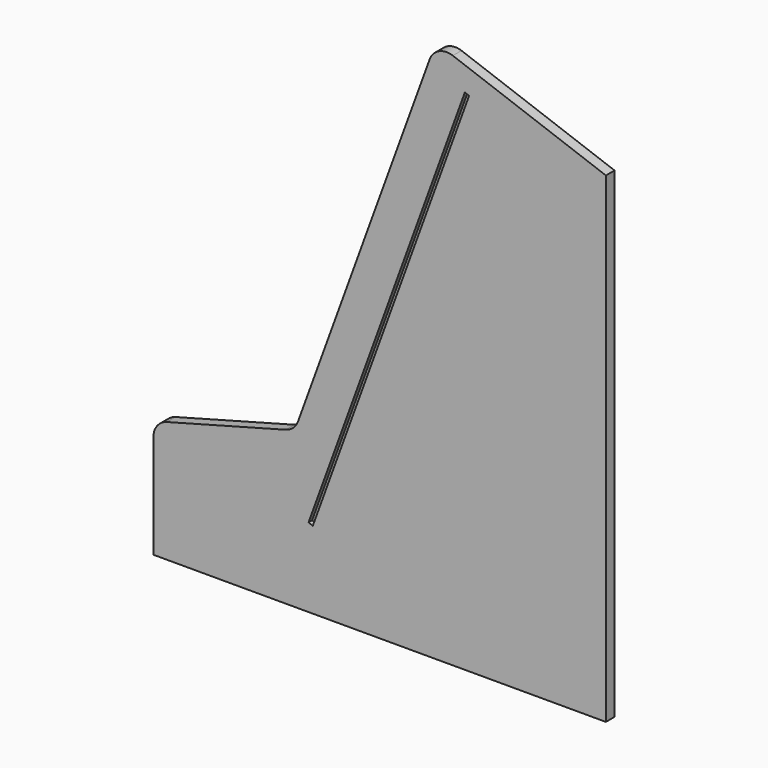
from build123d import *

# Parameters (mm, degrees)
PAD_DEPTH       = 12
POCKET_DEPTH    = 1
FILLET_R        = 20
FILLET001_R     = 20
FILLET002_R     = 20
POCKET001_DEPTH = 5


with BuildPart() as part:
    # Sketch001 → Pad (new body)
    with BuildSketch(Plane.XZ):
        Polygon((-20, -20), (-20, 110), (136.232082, 151.86226), (292.061476, 580), (480, 511.595971), (480, -20), align=None)
    extrude(amount=-PAD_DEPTH)

    # Sketch002 (on Face7 of Pad) → Pocket (cut)
    with BuildSketch(Plane.XZ):
        Polygon((465, -5), (465, 501.092858), (301.026563, 560.774309), (147.656805, 139.394363), (-5, 98.490095), (-5, -5), align=None)
    extrude(amount=POCKET_DEPTH, mode=Mode.SUBTRACT)

    # Fillet
    fillet_edges = [part.edges().sort_by_distance(p)[0] for p in [
        (-20, 6, 110),
    ]]
    fillet(fillet_edges, radius=FILLET_R)

    # Fillet001
    fillet001_edges = [part.edges().sort_by_distance(p)[0] for p in [
        (136.232082, 6, 151.86226),
    ]]
    fillet(fillet001_edges, radius=FILLET001_R)

    # Fillet002
    fillet002_edges = [part.edges().sort_by_distance(p)[0] for p in [
        (292.061476, 6, 580),
    ]]
    fillet(fillet002_edges, radius=FILLET002_R)

    # Sketch003 (on Face7 of Pocket) → Pocket001 (cut)
    with BuildSketch(Plane.XZ):
        Polygon((328.82826, 540.013541), (156.108087, 65.468767), (151.409624, 67.178868), (324.129797, 541.723641), align=None)
    extrude(amount=-POCKET001_DEPTH, mode=Mode.SUBTRACT)


solid = part.part
